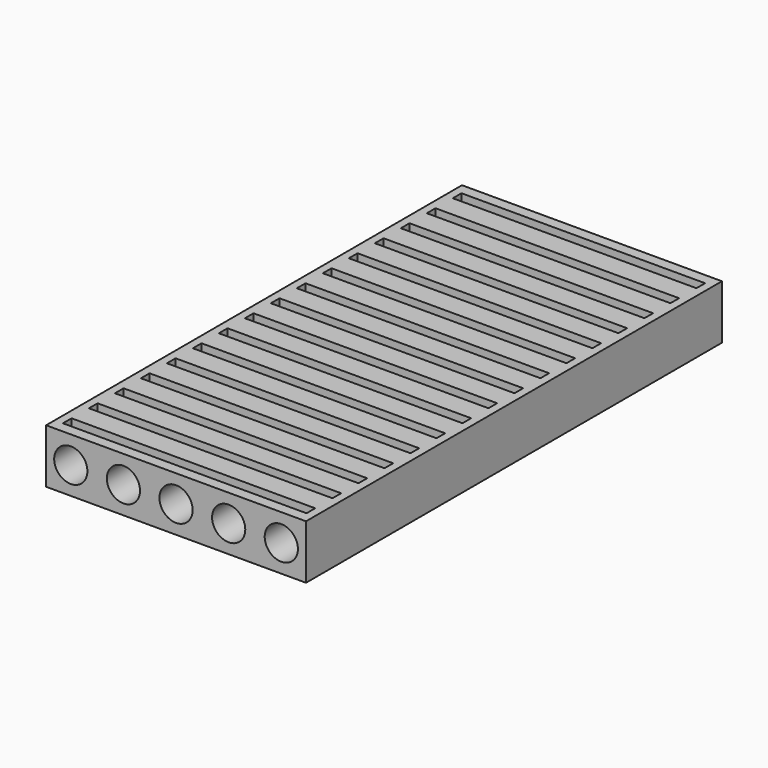
from build123d import *

# Parameters (mm, degrees)
F0_W     = 1219.2
F0_H     = 2438.4
F1_DEPTH = 254
F2_R     = 77.851
F3_DEPTH = 2438.401
F4_W     = 1142.492
F4_H     = 50.8
F5_DEPTH = 76.2


with BuildPart() as f1:
    # F0 (on Top) → F1 (new body)
    with BuildSketch(Plane.XY):
        Rectangle(F0_W, F0_H)
    extrude(amount=F1_DEPTH)

    # F2 (on face) → F3 (cut, through all)
    with BuildSketch(Plane.XZ.offset(1219.2)):
        with Locations((0, 127)):
            Circle(F2_R)
        with Locations((493.649, 127)):
            Circle(F2_R)
        with Locations((-493.649, 127)):
            Circle(F2_R)
        with Locations((-246.8245, 127)):
            Circle(F2_R)
        with Locations((246.8245, 127)):
            Circle(F2_R)
    extrude(amount=-F3_DEPTH, mode=Mode.SUBTRACT)

    # F4 (on face) → F5 (cut)
    with BuildSketch(Plane.XY.offset(254)):
        with Locations((0, -1143)):
            Rectangle(F4_W, F4_H)
        with Locations((0, -990.6)):
            Rectangle(F4_W, F4_H)
        with Locations((0, -838.2)):
            Rectangle(F4_W, F4_H)
        with Locations((0, -685.8)):
            Rectangle(F4_W, F4_H)
        with Locations((0, -533.4)):
            Rectangle(F4_W, F4_H)
        with Locations((0, -381)):
            Rectangle(F4_W, F4_H)
        with Locations((0, -228.6)):
            Rectangle(F4_W, F4_H)
        with Locations((0, -76.2)):
            Rectangle(F4_W, F4_H)
        with Locations((0, 76.2)):
            Rectangle(F4_W, F4_H)
        with Locations((0, 228.6)):
            Rectangle(F4_W, F4_H)
        with Locations((0, 381)):
            Rectangle(F4_W, F4_H)
        with Locations((0, 533.4)):
            Rectangle(F4_W, F4_H)
        with Locations((0, 685.8)):
            Rectangle(F4_W, F4_H)
        with Locations((0, 838.2)):
            Rectangle(F4_W, F4_H)
        with Locations((0, 990.6)):
            Rectangle(F4_W, F4_H)
        with Locations((0, 1143)):
            Rectangle(F4_W, F4_H)
    extrude(amount=-F5_DEPTH, mode=Mode.SUBTRACT)


solid = f1.part
